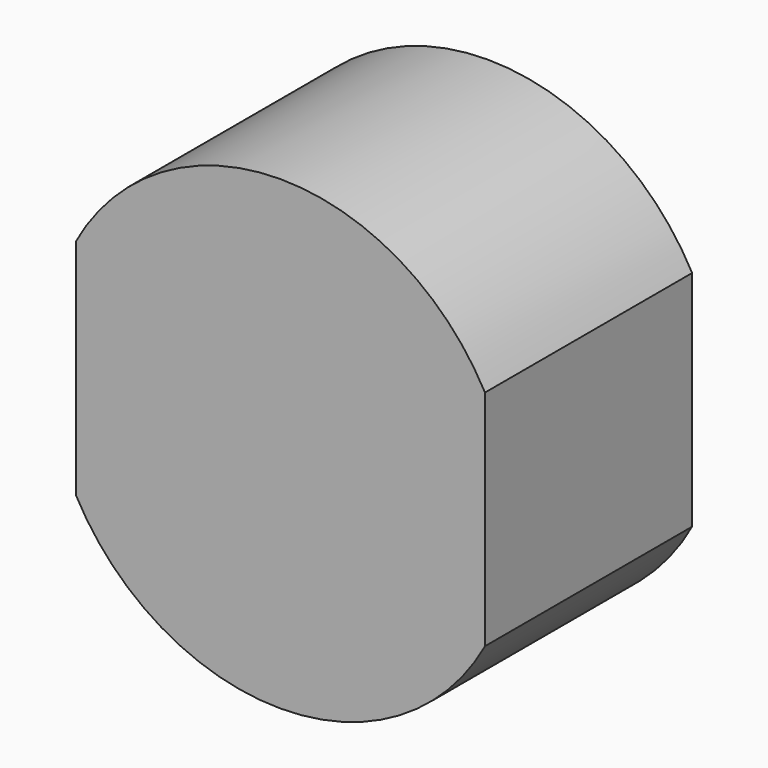
from build123d import *

# Parameters (mm, degrees)
CIRCLE003_AS_DRAWN_R                    = 9
EXTRUDE012_DEPTH                        = 10
EXTRUDE012_ONTO_CIRCLE003_ROLL_ANGLE    = 90
RECTANGLE006_AS_DRAWN_W                 = 15.8
RECTANGLE006_AS_DRAWN_H                 = 20.5
EXTRUDE011_DEPTH                        = 10
EXTRUDE011_ONTO_RECTANGLE006_ROLL_ANGLE = 90


with BuildPart() as extrude012:
    # Circle003 as drawn → Extrude012 (new)
    with BuildSketch(Plane.XY):
        Circle(CIRCLE003_AS_DRAWN_R)
    extrude(amount=-EXTRUDE012_DEPTH)


with BuildPart() as extrude012_1:
    # Extrude012 onto Circle003 roll: moved
    add(extrude012.part.rotate(Axis((0, 0, 0), (1, 0, 0)), EXTRUDE012_ONTO_CIRCLE003_ROLL_ANGLE))


with BuildPart() as extrude012_2:
    # Extrude012 onto Circle003 placement: moved
    add(extrude012_1.part.moved(Location((-26.421617, -16.969141, -4.904319))))


with BuildPart() as corpomotor:
    # Rectangle006 as drawn → Extrude011 (new)
    with BuildSketch(Plane.XY):
        with Locations((7.9, 10.25)):
            Rectangle(RECTANGLE006_AS_DRAWN_W, RECTANGLE006_AS_DRAWN_H)
    extrude(amount=-EXTRUDE011_DEPTH)


with BuildPart() as corpomotor_1:
    # Extrude011 onto Rectangle006 roll: moved
    add(corpomotor.part.rotate(Axis((0, 0, 0), (1, 0, 0)), EXTRUDE011_ONTO_RECTANGLE006_ROLL_ANGLE))


with BuildPart() as corpomotor_2:
    # Extrude011 onto Rectangle006 placement: moved
    add(corpomotor_1.part.moved(Location((-34.321617, -16.969141, -15.154319))))

    # Common002: intersect Extrude012
    add(extrude012_2.part, mode=Mode.INTERSECT)


with BuildPart() as corpomotor_3:
    # Common002 placement: moved
    add(corpomotor_2.part.moved(Location((36.106213, 66.825929, 15.967406))))


solid = corpomotor_3.part
